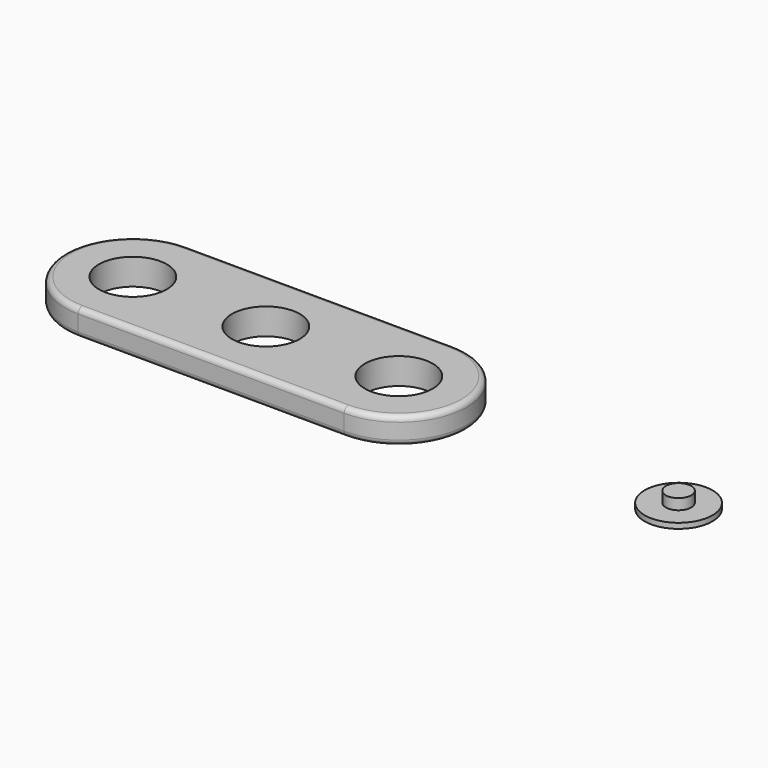
from build123d import *

# Parameters (mm, degrees)
F0_R     = 6.35
F1_DEPTH = 4.93
F2_R     = 1
F0_R_2   = 2.38125
F3_DEPTH = 1
F4_DEPTH = 3


with BuildPart() as f1:
    # F0 (on Top) → F1 (new body)
    with BuildSketch(Plane.XY):
        with BuildLine():
            Line((-52.181716, 12.567485), (-102.181015, 12.832159))
            ThreePointArc((-102.181015, 12.832159), (-114.948064, 0.199565), (-102.31547, -12.567485))
            Line((-102.31547, -12.567485), (-52.31617, -12.832159))
            ThreePointArc((-52.31617, -12.832159), (-39.549121, -0.199565), (-52.181716, 12.567485))
        make_face()
        with Locations((-77.248593, 0)):
            Circle(F0_R, mode=Mode.SUBTRACT)
        with Locations((-52.248943, -0.132337)):
            Circle(F0_R, mode=Mode.SUBTRACT)
        with Locations((-102.248242, 0.132337)):
            Circle(F0_R, mode=Mode.SUBTRACT)
    extrude(amount=F1_DEPTH)

    # F2
    f2_edges = [f1.edges().sort_by_distance(p)[0] for p in [
        (-77.31582, -12.699822, 4.93),
        (-77.31582, -12.699822, 0),
        (-77.181365, 12.699822, 0),
    ]]
    fillet(f2_edges, radius=F2_R)


with BuildPart() as f3:
    # F0 (on Top) → F3 (new body)
    with BuildSketch(Plane.XY):
        Circle(F0_R)
        Circle(F0_R_2, mode=Mode.SUBTRACT)
    extrude(amount=F3_DEPTH)

    # F0 (on Top) → F4 (join)
    with BuildSketch(Plane.XY):
        Circle(F0_R_2)
    extrude(amount=F4_DEPTH)


solid = Compound([f1.part, f3.part])
